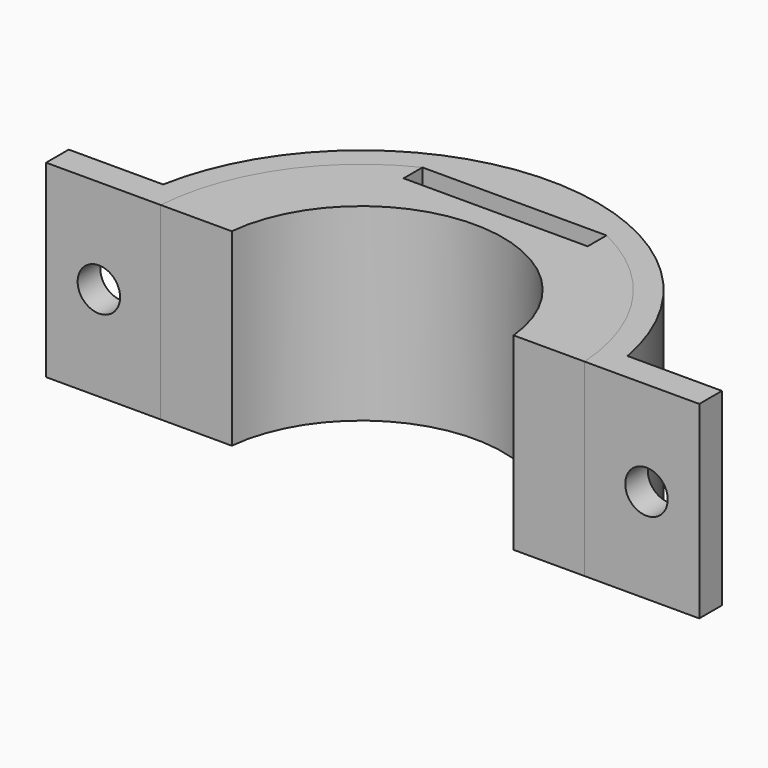
from build123d import *

# Parameters (mm, degrees)
PAD_DEPTH    = 20
PAD001_DEPTH = 20
SKETCH002_R  = 2.25
POCKET_DEPTH = 25.001


with BuildPart() as body:
    # Sketch → Pad (new body)
    with BuildSketch(Plane.XY):
        with BuildLine():
            ThreePointArc((-9.75, 20.277759), (-18.637601, 12.605151), (-22.449944, 1.5))
            Line((-22.449944, 1.5), (-14.924812, 1.5))
            ThreePointArc((14.924812, 1.5), (0, 15), (-14.924812, 1.5))
            Line((14.924812, 1.5), (22.449944, 1.5))
            ThreePointArc((22.449944, 1.5), (18.637601, 12.605151), (9.75, 20.277759))
            Line((9.75, 17.777759), (9.75, 20.277759))
            Line((-9.75, 17.777759), (9.75, 17.777759))
            Line((-9.75, 20.277759), (-9.75, 17.777759))
        make_face()
    extrude(amount=PAD_DEPTH)


with BuildPart() as body001:
    # Sketch001 → Pad001 (new body)
    with BuildSketch(Plane.XY):
        with BuildLine():
            ThreePointArc((24.591665, 4.5), (0, 25), (-24.591665, 4.5))
            Line((-24.591665, 4.5), (-34.591665, 4.5))
            Line((-34.591665, 4.5), (-34.591665, 1.5))
            Line((-34.591665, 1.5), (-22.449944, 1.5))
            ThreePointArc((-9.75, 20.277759), (-18.637601, 12.605151), (-22.449944, 1.5))
            Line((-9.75, 20.277759), (9.75, 20.277759))
            ThreePointArc((22.449944, 1.5), (18.637601, 12.605151), (9.75, 20.277759))
            Line((34.591665, 1.5), (22.449944, 1.5))
            Line((34.591665, 4.5), (34.591665, 1.5))
            Line((24.591665, 4.5), (34.591665, 4.5))
        make_face()
    extrude(amount=PAD001_DEPTH)

    # Sketch002 → Pocket (cut, through all)
    with BuildSketch(Plane.XZ):
        with Locations((-29, 10)):
            Circle(SKETCH002_R)
        with Locations((29, 10)):
            Circle(SKETCH002_R)
    extrude(amount=-POCKET_DEPTH, mode=Mode.SUBTRACT)


solid = Compound([body.part, body001.part])
